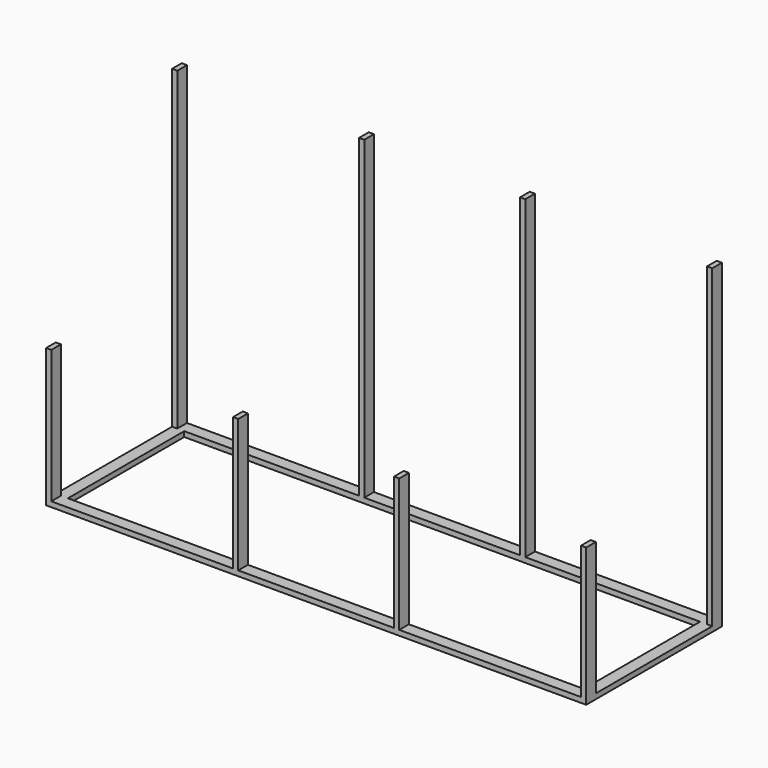
from build123d import *

# Parameters (mm, degrees)
F0_W      = 3962.4
F0_H      = 38.1
F1_DEPTH  = 88.9
F2_W      = 38.1
F2_H      = 88.9
F3_DEPTH  = 977.9
F5_DEPTH  = 1066.8
F7_W      = 3962.4
F7_H      = 38.1
F8_DEPTH  = 88.9
F9_W      = 38.1
F9_H      = 88.9
F10_DEPTH = 2311.4


with BuildPart() as f1:
    # F0 (on Front) → F1 (new body)
    with BuildSketch(Plane.XZ):
        with Locations((1981.2, 19.05)):
            Rectangle(F0_W, F0_H)
    extrude(amount=F1_DEPTH)

    # F2 (on face) → F3 (join)
    with BuildSketch(Plane.XY.offset(38.1)):
        with Locations((19.05, -44.45)):
            Rectangle(F2_W, F2_H)
        with Locations((1390.65, -44.45)):
            Rectangle(F2_W, F2_H)
        with Locations((2571.75, -44.45)):
            Rectangle(F2_W, F2_H)
        with Locations((3943.35, -44.45)):
            Rectangle(F2_W, F2_H)
    extrude(amount=F3_DEPTH)

    # F4 (on face) → F5 (join)
    with BuildSketch(Plane(origin=(0, 0, 0), x_dir=(-1, 0, 0), z_dir=(0, 1, 0))):
        Polygon((-88.9, 38.1), (-88.9, 0), (0, 0), (0, 38.1), (-38.1, 38.1), align=None)
        Polygon((-3962.4, 38.1), (-3962.4, 0), (-3873.5, 0), (-3873.5, 38.1), (-3924.3, 38.1), align=None)
    extrude(amount=F5_DEPTH)

    # F7 (on offset) → F8 (join)
    with BuildSketch(Plane(origin=(0, 1066.8, 0), x_dir=(-1, 0, 0), z_dir=(0, 1, 0))):
        with Locations((-1981.2, 19.05)):
            Rectangle(F7_W, F7_H)
    extrude(amount=F8_DEPTH)

    # F9 (on face) → F10 (join)
    with BuildSketch(Plane.XY.offset(38.1)):
        with Locations((3943.35, 1111.25)):
            Rectangle(F9_W, F9_H)
        with Locations((2571.75, 1111.25)):
            Rectangle(F9_W, F9_H)
        with Locations((1390.65, 1111.25)):
            Rectangle(F9_W, F9_H)
        with Locations((19.05, 1111.25)):
            Rectangle(F9_W, F9_H)
    extrude(amount=F10_DEPTH)


solid = f1.part
